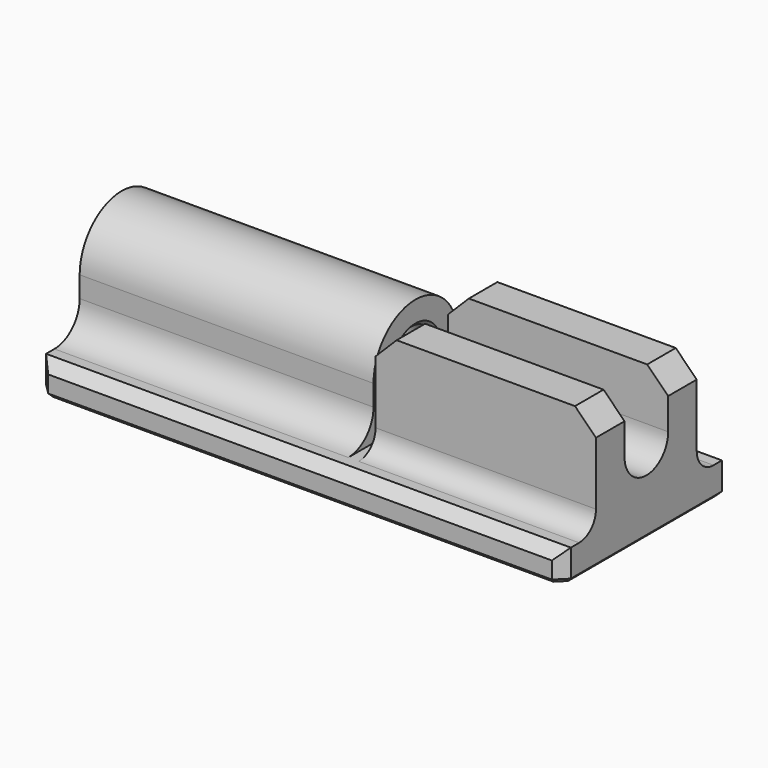
from build123d import *

# Parameters (mm, degrees)
CYLINDER_R        = 2.6
CYLINDER_DEPTH    = 50
BOX001_W          = 50
BOX001_H          = 20
BOX001_DEPTH      = 3
BOX_W             = 28
BOX_H             = 10
BOX_DEPTH         = 5
FILLET_R          = 3
CYLINDER001_R     = 5
CYLINDER001_DEPTH = 28
CYLINDER002_R     = 2.6
CYLINDER002_DEPTH = 50
BOX003_W          = 21
BOX003_H          = 5.2
BOX003_DEPTH      = 10
BOX002_W          = 21
BOX002_H          = 12
BOX002_DEPTH      = 10
FILLET001_R       = 2
CHAMFER_SIZE      = 2
CHAMFER001_SIZE   = 1
CHAMFER002_SIZE   = 0.4
CHAMFER003_SIZE   = 0.4


with BuildPart() as cylinder:
    # Cylinder → Cylinder (new body)
    with BuildSketch(Plane(origin=(0, 0, 5), x_dir=(0, 0, -1), z_dir=(1, 0, 0))):
        Circle(CYLINDER_R)
    extrude(amount=CYLINDER_DEPTH)


with BuildPart() as cube001:
    # Box001 → Box001 (new body)
    with BuildSketch(Plane(origin=(0, -10, -3), x_dir=(1, 0, 0), z_dir=(0, 0, 1))):
        with Locations((25, 10)):
            Rectangle(BOX001_W, BOX001_H)
    extrude(amount=BOX001_DEPTH)


with BuildPart() as fillet_body:
    # Box → Box (new body)
    with BuildSketch(Plane(origin=(0, -5, 0), x_dir=(1, 0, 0), z_dir=(0, 0, 1))):
        with Locations((14, 5)):
            Rectangle(BOX_W, BOX_H)
    extrude(amount=BOX_DEPTH)

    # Fusion: union Cube001
    add(cube001.part)

    # Fillet
    fillet_edges = [fillet_body.edges().sort_by_distance(p)[0] for p in [
        (14, -5, 0),
        (14, 5, 0),
    ]]
    fillet(fillet_edges, radius=FILLET_R)


with BuildPart() as cut:
    # Cylinder001 → Cylinder001 (new body)
    with BuildSketch(Plane(origin=(0, 0, 5), x_dir=(0, 0, -1), z_dir=(1, 0, 0))):
        Circle(CYLINDER001_R)
    extrude(amount=CYLINDER001_DEPTH)

    # Fusion001: union Fillet body
    add(fillet_body.part)

    # Cut: cut Cylinder
    add(cylinder.part, mode=Mode.SUBTRACT)


with BuildPart() as cylinder002:
    # Cylinder002 → Cylinder002 (new body)
    with BuildSketch(Plane(origin=(0, 0, 5), x_dir=(0, 0, -1), z_dir=(1, 0, 0))):
        Circle(CYLINDER002_R)
    extrude(amount=CYLINDER002_DEPTH)


with BuildPart() as fusion002:
    # Box003 → Box003 (new body)
    with BuildSketch(Plane(origin=(29, -2.6, 5), x_dir=(1, 0, 0), z_dir=(0, 0, 1))):
        with Locations((10.5, 2.6)):
            Rectangle(BOX003_W, BOX003_H)
    extrude(amount=BOX003_DEPTH)

    # Fusion002: union Cylinder002
    add(cylinder002.part)


with BuildPart() as chamfer003:
    # Box002 → Box002 (new body)
    with BuildSketch(Plane(origin=(29, -6, 0), x_dir=(1, 0, 0), z_dir=(0, 0, 1))):
        with Locations((10.5, 6)):
            Rectangle(BOX002_W, BOX002_H)
    extrude(amount=BOX002_DEPTH)

    # Cut001: cut Fusion002
    add(fusion002.part, mode=Mode.SUBTRACT)

    # Fusion003: union Cut
    add(cut.part)

    # Fillet001
    fillet001_edges = [chamfer003.edges().sort_by_distance(p)[0] for p in [
        (39.5, 6, 0),
        (39.5, -6, 0),
    ]]
    fillet(fillet001_edges, radius=FILLET001_R)

    # Chamfer
    chamfer_edges = [chamfer003.edges().sort_by_distance(p)[0] for p in [
        (29, 4.3, 10),
        (29, -4.3, 10),
        (50, 4.3, 10),
        (50, -4.3, 10),
    ]]
    chamfer(chamfer_edges, length=CHAMFER_SIZE)

    # Chamfer001
    chamfer001_edges = [chamfer003.edges().sort_by_distance(p)[0] for p in [
        (25, 10, 0),
        (25, -10, 0),
        (50, -10, -1.5),
        (50, 10, -1.5),
        (0, 10, -1.5),
        (0, -10, -1.5),
    ]]
    chamfer(chamfer001_edges, length=CHAMFER001_SIZE)

    # Chamfer002
    chamfer002_edges = [chamfer003.edges().sort_by_distance(p)[0] for p in [
        (50, 0, -3),
        (0, 0, -3),
        (49.5, -9.5, -3),
        (0.5, -9.5, -3),
        (0.5, 9.5, -3),
        (25, -10, -3),
        (25, 10, -3),
        (49.5, 9.5, -3),
    ]]
    chamfer(chamfer002_edges, length=CHAMFER002_SIZE)

    # Chamfer003
    chamfer003_edges = [chamfer003.edges().sort_by_distance(p)[0] for p in [
        (28, -1.838478, 3.161522),
        (28, 1.838478, 3.161522),
        (0, -1.838478, 3.161522),
        (0, 1.838478, 3.161522),
        (28, 0, 7.6),
        (0, 0, 7.6),
    ]]
    chamfer(chamfer003_edges, length=CHAMFER003_SIZE)


solid = chamfer003.part
